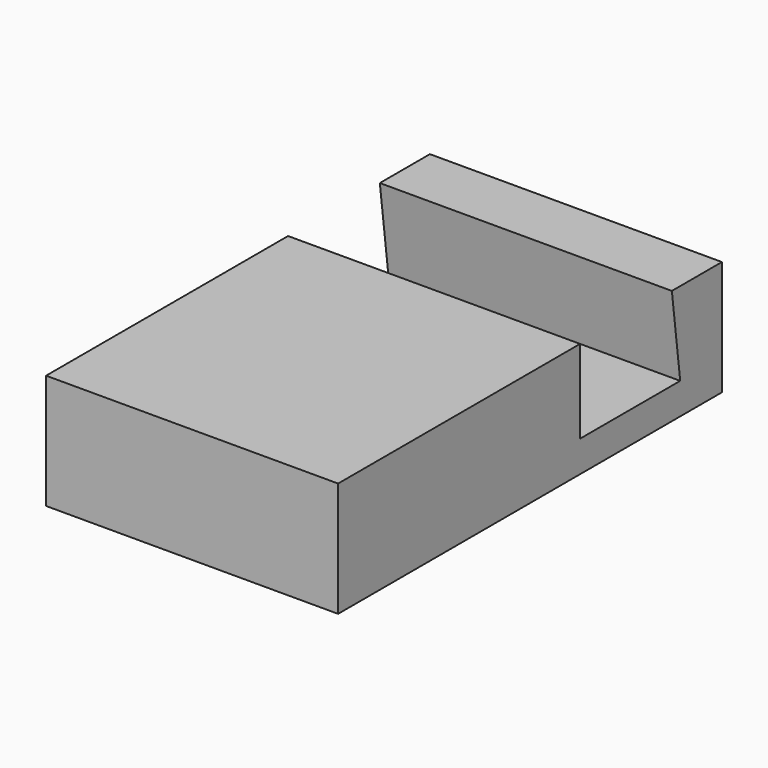
from build123d import *

# Parameters (mm, degrees)
PAD_DEPTH = 14


with BuildPart() as part:
    # Sketch → Pad (new body, symmetric)
    with BuildSketch(Plane.YZ):
        Polygon((0, 11), (0, 0), (46, 0), (46, 11), (40, 11), (41, 3), (29, 3), (29, 11), align=None)
    extrude(amount=PAD_DEPTH, both=True)


solid = part.part
